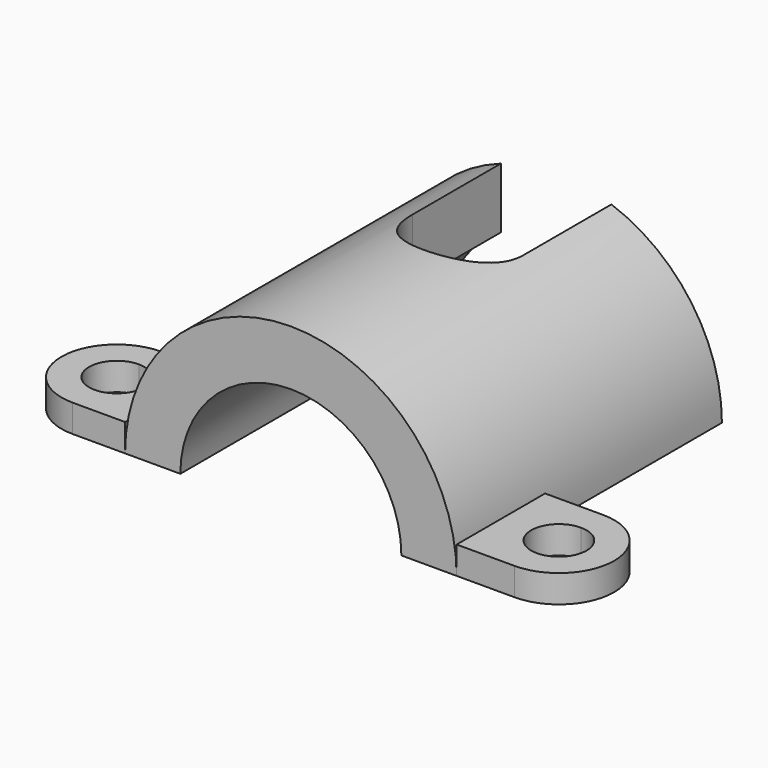
from build123d import *

# Parameters (mm, degrees)
F1_DEPTH = 60
F2_W     = 20
F2_H     = 40
F3_DEPTH = 30.001
F5_DEPTH = 5


with BuildPart() as f1:
    # F0 (on Front) → F1 (new body)
    with BuildSketch(Plane.XZ):
        with BuildLine():
            Line((20, 0), (30, 0))
            ThreePointArc((30, 0), (0, 30), (-30, 0))
            Line((-30, 0), (-20, 0))
            ThreePointArc((-20, 0), (0, 20), (20, 0))
        make_face()
    extrude(amount=F1_DEPTH)

    # F2 (on Top) → F3 (cut, through all)
    with BuildSketch(Plane.XY):
        Rectangle(F2_W, F2_H)
        with BuildLine():
            Line((10, -20), (-10, -20))
            ThreePointArc((-10, -20), (0, -30), (10, -20))
        make_face()
    extrude(amount=F3_DEPTH, mode=Mode.SUBTRACT)


with BuildPart() as f5:
    # F4 (on Top) → F5 (new body)
    with BuildSketch(Plane.XY):
        with BuildLine():
            Line((-30, -40), (-39.501077, -40))
            Line((-39.501077, -40), (-39.501077, -45))
            ThreePointArc((-39.501077, -45), (-35.965543, -46.464466), (-34.501077, -50))
            ThreePointArc((-34.501077, -50), (-35.965543, -53.535534), (-39.501077, -55))
            Line((-39.501077, -55), (-39.501077, -60))
            Line((-39.501077, -60), (-30, -60))
            Line((-30, -60), (-30, -40))
        make_face()
        with BuildLine():
            Line((-39.501077, -45), (-39.501077, -40))
            ThreePointArc((-39.501077, -40), (-49.501077, -50), (-39.501077, -60))
            Line((-39.501077, -60), (-39.501077, -55))
            ThreePointArc((-39.501077, -55), (-44.501077, -50), (-39.501077, -45))
        make_face()
        with BuildLine():
            Line((40.498923, -45), (40.498923, -40))
            Line((40.498923, -40), (30, -40))
            Line((30, -40), (30, -60))
            Line((30, -60), (40.498923, -60))
            Line((40.498923, -60), (40.498923, -55))
            ThreePointArc((40.498923, -55), (35.498923, -50), (40.498923, -45))
        make_face()
        with BuildLine():
            ThreePointArc((40.498923, -60), (50.498923, -50), (40.498923, -40))
            Line((40.498923, -40), (40.498923, -45))
            ThreePointArc((40.498923, -45), (44.034457, -46.464466), (45.498923, -50))
            ThreePointArc((45.498923, -50), (44.034457, -53.535534), (40.498923, -55))
            Line((40.498923, -55), (40.498923, -60))
        make_face()
    extrude(amount=F5_DEPTH)


solid = Compound([f1.part, f5.part])
